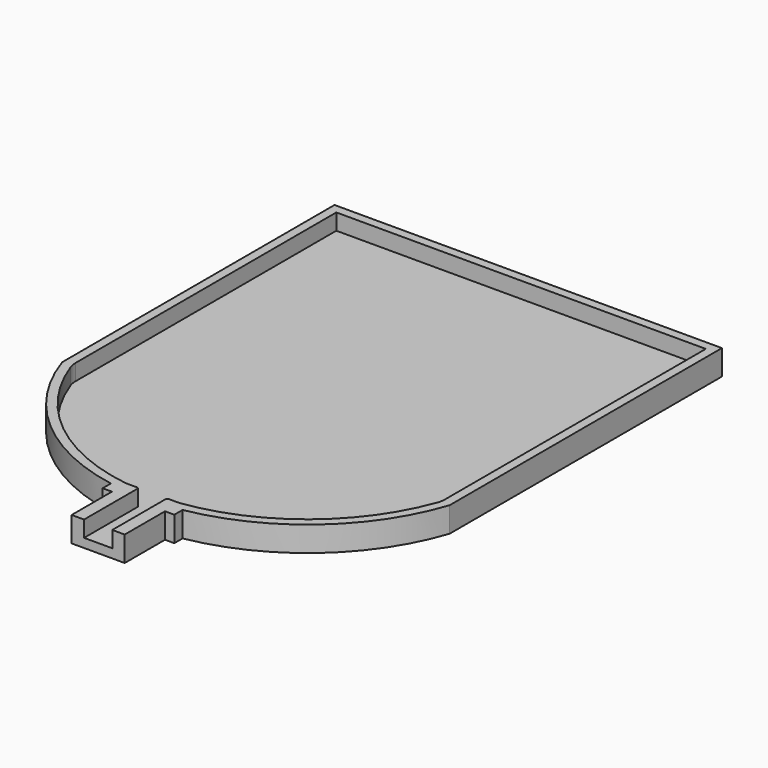
from build123d import *

# Parameters (mm, degrees)
F0_W     = 5.925
F0_H     = 11.25
F0_H_2   = 1.596662
F1_DEPTH = 1
F3_DEPTH = 3.6
F4_R     = 5
F5_SIZE  = 0.25


with BuildPart() as f1:
    # F0 (on Top) → F1 (new body, symmetric)
    with BuildSketch(Plane.XY):
        with BuildLine():
            Line((2.170431, -46.027672), (-38.966179, -46.027672))
            ThreePointArc((-38.966179, -46.027672), (-23.047559, -67.17303), (2.170431, -75.209299))
            Line((2.170431, -75.209299), (2.170431, -46.027672))
        make_face()
        with BuildLine():
            ThreePointArc((2.170431, -75.209299), (27.388422, -67.17303), (43.307042, -46.027672))
            Line((43.307042, -46.027672), (2.170431, -46.027672))
            Line((2.170431, -46.027672), (2.170431, -75.209299))
        make_face()
        with BuildLine():
            Line((45.420431, 29.972328), (-41.079569, 29.972328))
            Line((-41.079569, 29.972328), (-41.079569, -46.027672))
            Line((-41.079569, -46.027672), (-38.966179, -46.027672))
            ThreePointArc((-38.966179, -46.027672), (-39.0232, -45.863777), (-39.079569, -45.699656))
            Line((-39.079569, -45.699656), (-39.079569, 27.972328))
            Line((-39.079569, 27.972328), (43.420431, 27.972328))
            Line((43.420431, 27.972328), (43.420431, -45.699656))
            ThreePointArc((43.420431, -45.699656), (43.364063, -45.863777), (43.307042, -46.027672))
            Line((43.307042, -46.027672), (45.420431, -46.027672))
            Line((45.420431, -46.027672), (45.420431, 29.972328))
        make_face()
        with BuildLine():
            Line((-38.966179, -46.027672), (-41.079569, -46.027672))
            ThreePointArc((-41.079569, -46.027672), (-27.642472, -66.108974), (-5.829569, -76.501831))
            Line((-5.829569, -76.501831), (2.170431, -76.501831))
            Line((2.170431, -76.501831), (2.170431, -75.209299))
            ThreePointArc((2.170431, -75.209299), (-23.047559, -67.17303), (-38.966179, -46.027672))
        make_face()
        with BuildLine():
            ThreePointArc((10.170431, -76.501831), (31.983335, -66.108974), (45.420431, -46.027672))
            Line((45.420431, -46.027672), (43.307042, -46.027672))
            ThreePointArc((43.307042, -46.027672), (27.388422, -67.17303), (2.170431, -75.209299))
            Line((2.170431, -75.209299), (2.170431, -76.501831))
            Line((2.170431, -76.501831), (10.170431, -76.501831))
        make_face()
        with BuildLine():
            ThreePointArc((-39.079569, -45.699656), (-39.0232, -45.863777), (-38.966179, -46.027672))
            Line((-38.966179, -46.027672), (2.170431, -46.027672))
            Line((2.170431, -46.027672), (43.307042, -46.027672))
            ThreePointArc((43.307042, -46.027672), (43.364063, -45.863777), (43.420431, -45.699656))
            Line((43.420431, -45.699656), (43.420431, 27.972328))
            Line((43.420431, 27.972328), (-39.079569, 27.972328))
            Line((-39.079569, 27.972328), (-39.079569, -45.699656))
        make_face()
        with Locations((5.132931, -84.430961)):
            Rectangle(F0_W, F0_H)
        with Locations((-0.792069, -84.430961)):
            Rectangle(F0_W, F0_H)
        with Locations((-0.792069, -78.00763)):
            Rectangle(F0_W, F0_H_2)
        with BuildLine():
            ThreePointArc((2.170431, -77.209299), (-1.845179, -77.032088), (-5.829569, -76.501831))
            Line((-5.829569, -76.501831), (-5.829569, -78.805961))
            Line((-5.829569, -78.805961), (-3.754569, -78.805961))
            Line((-3.754569, -78.805961), (-3.754569, -77.209299))
            Line((-3.754569, -77.209299), (2.170431, -77.209299))
        make_face()
        with BuildLine():
            Line((10.170431, -78.805961), (10.170431, -76.501831))
            ThreePointArc((10.170431, -76.501831), (6.186042, -77.032088), (2.170431, -77.209299))
            Line((2.170431, -77.209299), (8.095431, -77.209299))
            Line((8.095431, -77.209299), (8.095431, -78.805961))
            Line((8.095431, -78.805961), (10.170431, -78.805961))
        make_face()
        with Locations((5.132931, -78.00763)):
            Rectangle(F0_W, F0_H_2)
        with BuildLine():
            Line((2.170431, -76.501831), (-5.829569, -76.501831))
            ThreePointArc((-5.829569, -76.501831), (-1.845179, -77.032088), (2.170431, -77.209299))
            Line((2.170431, -77.209299), (2.170431, -76.501831))
        make_face()
        with BuildLine():
            ThreePointArc((2.170431, -77.209299), (6.186042, -77.032088), (10.170431, -76.501831))
            Line((10.170431, -76.501831), (2.170431, -76.501831))
            Line((2.170431, -76.501831), (2.170431, -77.209299))
        make_face()
    extrude(amount=F1_DEPTH, both=True)

    # F2 (on face) → F3 (join)
    with BuildSketch(Plane.XY.offset(1)):
        with BuildLine():
            Line((-39.079569, 27.972328), (43.420431, 27.972328))
            Line((43.420431, 27.972328), (43.420431, -45.699656))
            ThreePointArc((43.420431, -45.699656), (29.915085, -65.238213), (8.170431, -74.794342))
            Line((8.170431, -74.794342), (8.170431, -76.805961))
            Line((8.170431, -76.805961), (6.095431, -76.805961))
            Line((6.095431, -76.805961), (6.095431, -88.055961))
            Line((6.095431, -88.055961), (5.320431, -88.055961))
            Line((5.320431, -88.055961), (5.320431, -90.055961))
            Line((5.320431, -90.055961), (8.095431, -90.055961))
            Line((8.095431, -90.055961), (8.095431, -78.805961))
            Line((8.095431, -78.805961), (10.170431, -78.805961))
            Line((10.170431, -78.805961), (10.170431, -76.501831))
            ThreePointArc((10.170431, -76.501831), (31.983335, -66.108974), (45.420431, -46.027672))
            Line((45.420431, -46.027672), (45.420431, 29.972328))
            Line((45.420431, 29.972328), (-41.079569, 29.972328))
            Line((-41.079569, 29.972328), (-41.079569, -46.027672))
            ThreePointArc((-41.079569, -46.027672), (-27.642472, -66.108974), (-5.829569, -76.501831))
            Line((-5.829569, -76.501831), (-5.829569, -78.805961))
            Line((-5.829569, -78.805961), (-3.754569, -78.805961))
            Line((-3.754569, -78.805961), (-3.754569, -90.055961))
            Line((-3.754569, -90.055961), (-0.979569, -90.055961))
            Line((-0.979569, -90.055961), (-0.979569, -88.055961))
            Line((-0.979569, -88.055961), (-1.754569, -88.055961))
            Line((-1.754569, -88.055961), (-1.754569, -76.805961))
            Line((-1.754569, -76.805961), (-3.829569, -76.805961))
            Line((-3.829569, -76.805961), (-3.829569, -74.794342))
            ThreePointArc((-3.829569, -74.794342), (-25.574222, -65.238213), (-39.079569, -45.699656))
            Line((-39.079569, -45.699656), (-39.079569, 27.972328))
        make_face()
        Polygon((-0.979569, -74.794342), (-3.829569, -74.794342), (-3.829569, -76.805961), (-1.754569, -76.805961), (-1.754569, -88.055961), (-0.979569, -88.055961), align=None)
        Polygon((8.170431, -76.805961), (8.170431, -74.794342), (5.320431, -74.794342), (5.320431, -88.055961), (6.095431, -88.055961), (6.095431, -76.805961), align=None)
    extrude(amount=F3_DEPTH)

    # F4
    f4_edges = [f1.edges().sort_by_distance(p)[0] for p in [
        (-39.079569, -45.699656, 2.8),
        (43.420431, -45.699656, 2.8),
    ]]
    fillet(f4_edges, radius=F4_R)

    # F5
    f5_edges = [f1.edges().sort_by_distance(p)[0] for p in [
        (-0.979569, -74.794342, 2.8),
        (5.320431, -74.794342, 2.8),
    ]]
    chamfer(f5_edges, length=F5_SIZE)


solid = f1.part
